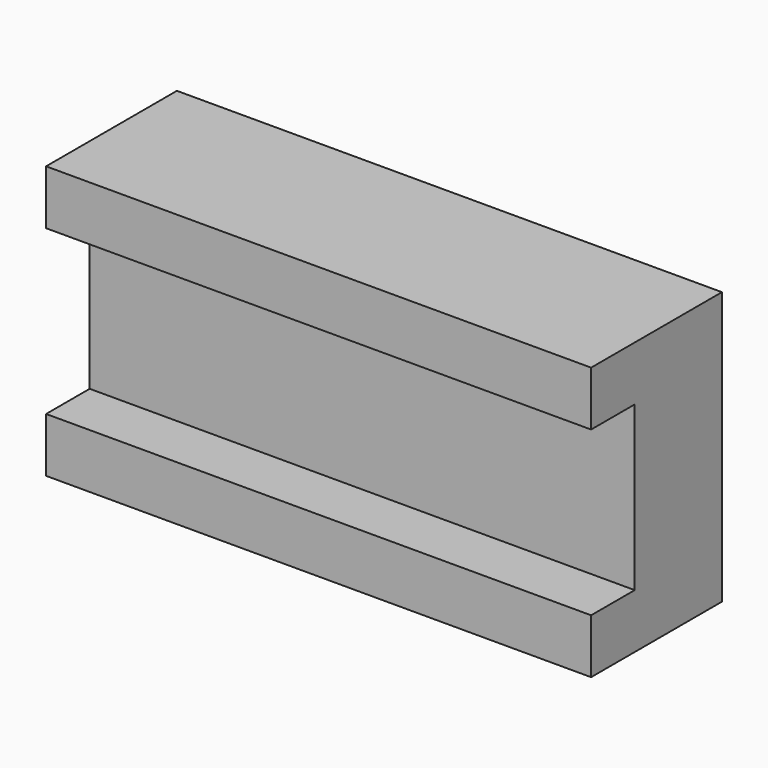
from build123d import *

# Parameters (mm, degrees)
F0_W     = 127
F0_H     = 63.5
F1_DEPTH = 25.4
F2_W     = 127
F2_H     = 12.7
F3_DEPTH = 12.7


with BuildPart() as f1:
    # F0 (on Front) → F1 (new body)
    with BuildSketch(Plane.XZ):
        Rectangle(F0_W, F0_H)
    extrude(amount=F1_DEPTH)

    # F2 (on face) → F3 (join)
    with BuildSketch(Plane.XZ.offset(25.4)):
        with Locations((0, 25.4)):
            Rectangle(F2_W, F2_H)
        with Locations((0, -25.4)):
            Rectangle(F2_W, F2_H)
    extrude(amount=F3_DEPTH)


solid = f1.part
